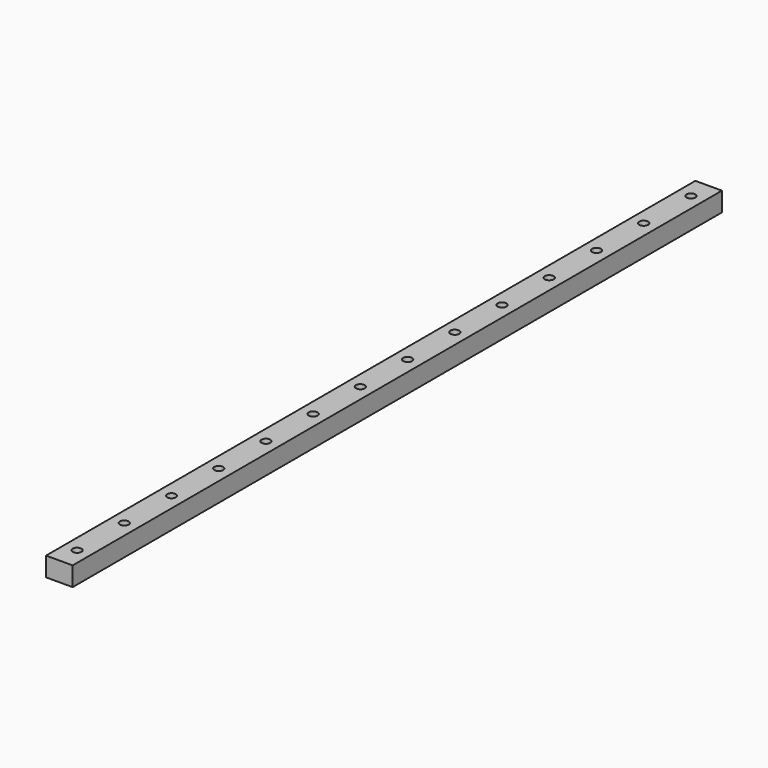
from build123d import *

# Parameters (mm, degrees)
SKETCH029_W            = 9
SKETCH029_H            = 275
PAD010_DEPTH           = 6.5
SKETCH030_R            = 1.5
POCKET020_DEPTH        = 6.5
LINEARPATTERN004_COUNT = 14
LINEARPATTERN004_PITCH = 20


with BuildPart() as part:
    # Sketch029 → Pad010 (new body)
    with BuildSketch(Plane.XY):
        with Locations((-4.5, 137.5)):
            Rectangle(SKETCH029_W, SKETCH029_H)
    extrude(amount=PAD010_DEPTH)

    # Sketch030 (on Face6 of Pad010) → Pocket020 (cut)
    with BuildSketch(Plane.XY.offset(6.5)):
        with Locations((-4.5, 7.5)):
            Circle(SKETCH030_R)
    pocket020 = extrude(amount=-POCKET020_DEPTH, mode=Mode.SUBTRACT)

    # LinearPattern004: Pocket020 ×14
    with Locations(*[(0, i * LINEARPATTERN004_PITCH, 0) for i in range(1, LINEARPATTERN004_COUNT)]):
        add(pocket020, mode=Mode.SUBTRACT)


solid = part.part
